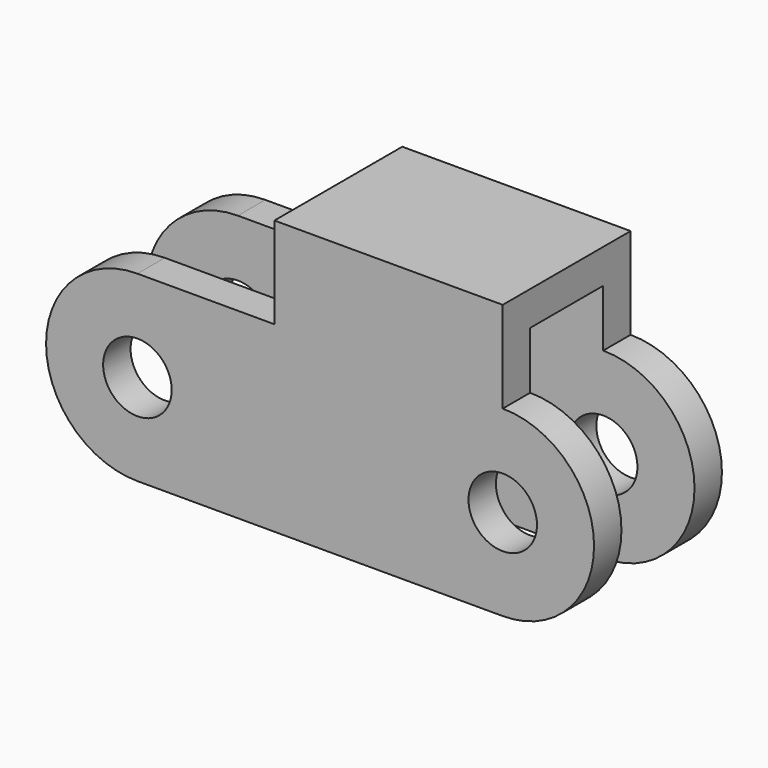
from build123d import *

# Parameters (mm, degrees)
F0_R     = 3
F1_DEPTH = 14
F2_T     = -3


with BuildPart() as f1:
    # F0 (on Front) → F1 (new body)
    with BuildSketch(Plane.XZ):
        with BuildLine():
            ThreePointArc((-13.975825, 3.294284), (-21.975825, -4.705716), (-13.975825, -12.705716))
            Line((-13.975825, -12.705716), (18.024175, -12.705716))
            ThreePointArc((18.024175, -12.705716), (26.024175, -4.705716), (18.024175, 3.294284))
            Line((18.024175, 3.294284), (18.024175, 11.294284))
            Line((18.024175, 11.294284), (-1.975825, 11.294284))
            Line((-1.975825, 11.294284), (-1.975825, 3.294284))
            Line((-1.975825, 3.294284), (-13.975825, 3.294284))
        make_face()
        with Locations((-13.975825, -4.705716)):
            Circle(F0_R, mode=Mode.SUBTRACT)
        with Locations((18.024175, -4.705716)):
            Circle(F0_R, mode=Mode.SUBTRACT)
    extrude(amount=F1_DEPTH)

    # F2
    f2_openings = [f1.faces().sort_by_distance(p)[0] for p in [
        (-21.975825, -7, -4.705716),
        (2.024175, -7, -12.705716),
        (-7.975825, -7, 3.294284),
        (-1.975825, -7, 7.294284),
        (-16.975825, -7, -4.705716),
        (15.024175, -7, -4.705716),
        (26.024175, -7, -4.705716),
        (18.024175, -7, 7.294284),
    ]]
    offset(amount=F2_T, openings=f2_openings)


solid = f1.part
